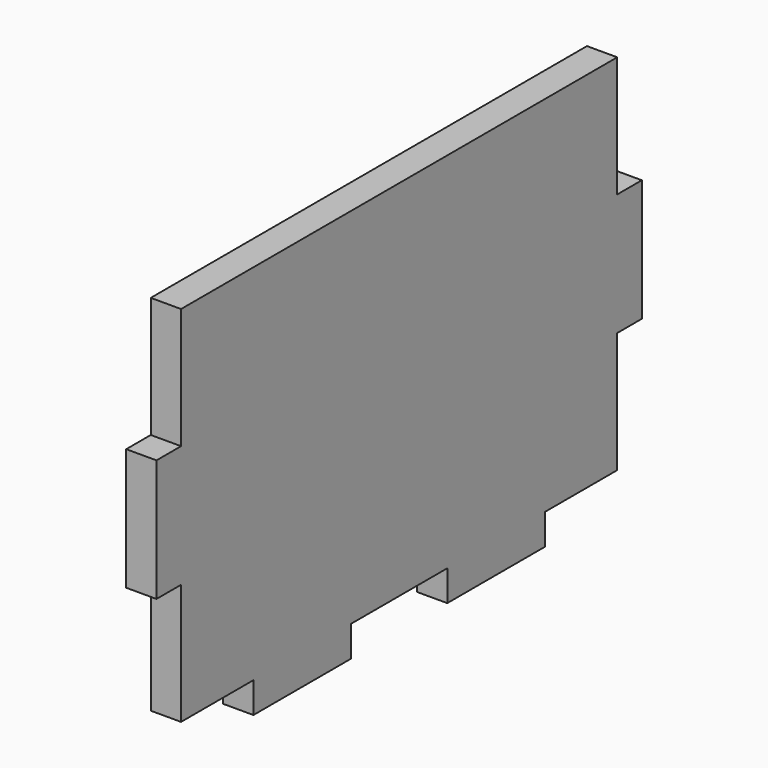
from build123d import *

# Parameters (mm, degrees)
F0_W     = 6.4389
F0_H     = 25.5778
F0_W_2   = 25.5778
F0_H_2   = 6.4389
F1_DEPTH = 6.35


with BuildPart() as f1:
    # F0 (on Right) → F1 (new body)
    with BuildSketch(Plane.YZ):
        with Locations((-3.21945, 38.1)):
            Rectangle(F0_W, F0_H)
        Polygon((0, 25.3111), (0, 0), (18.9611, 0), (44.5389, 0), (69.7611, 0), (95.3389, 0), (114.3, 0), (114.3, 25.3111), (114.3, 50.8889), (114.3, 76.2), (0, 76.2), (0, 50.8889), align=None)
        with Locations((31.75, -3.21945)):
            Rectangle(F0_W_2, F0_H_2)
        with Locations((82.55, -3.21945)):
            Rectangle(F0_W_2, F0_H_2)
        with Locations((117.51945, 38.1)):
            Rectangle(F0_W, F0_H)
    extrude(amount=F1_DEPTH)


solid = f1.part
